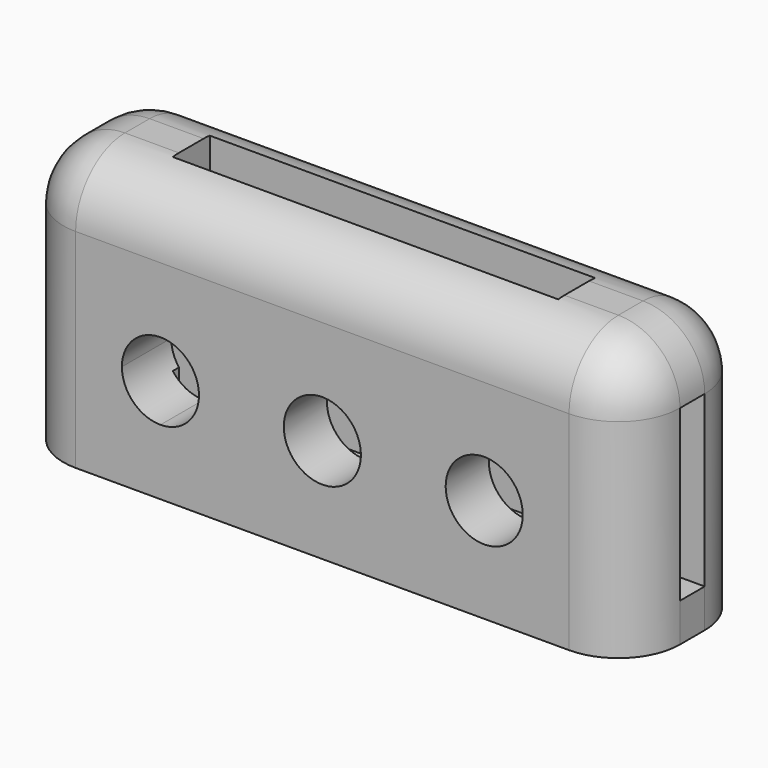
from build123d import *

# Parameters (mm, degrees)
F0_W     = 101.6
F0_H     = 44.45
F1_DEPTH = 25.4
F2_R     = 10.16
F4_DEPTH = 101.6
F6_DEPTH = 25.4
F8_DEPTH = 38.1


with BuildPart() as f1:
    # F0 (on Front) → F1 (new body)
    with BuildSketch(Plane.XZ):
        with Locations((-50.8, -22.225)):
            Rectangle(F0_W, F0_H)
    extrude(amount=F1_DEPTH)

    # F2
    f2_edges = [f1.edges().sort_by_distance(p)[0] for p in [
        (-50.8, -25.4, 0),
        (0, -12.7, 0),
        (0, -25.4, -22.225),
        (0, 0, -22.225),
        (-101.6, -25.4, -22.225),
        (-101.6, -12.7, 0),
        (-50.8, 0, 0),
        (-101.6, 0, -22.225),
    ]]
    fillet(f2_edges, radius=F2_R)

    # F3 (on face) → F4 (cut)
    with BuildSketch(Plane(origin=(-101.6, 0, 0), x_dir=(0, -1, 0), z_dir=(-1, 0, 0))):
        Polygon((15.24, -10.16), (10.16, -10.16), (10.16, -38.1), (12.7, -38.1), (15.24, -38.1), align=None)
    extrude(amount=-F4_DEPTH, mode=Mode.SUBTRACT)

    # F5 (on face) → F6 (cut)
    with BuildSketch(Plane.XZ.offset(25.4)):
        with BuildLine():
            Line((-77.47, -27.305), (-71.12, -27.305))
            ThreePointArc((-71.12, -27.305), (-72.979872, -22.814872), (-77.47, -20.955))
            Line((-77.47, -20.955), (-77.47, -27.305))
        make_face()
        with BuildLine():
            ThreePointArc((-17.78, -27.305), (-24.13, -20.955), (-30.48, -27.305))
            Line((-30.48, -27.305), (-24.13, -27.305))
            Line((-24.13, -27.305), (-17.78, -27.305))
        make_face()
        with BuildLine():
            Line((-24.13, -27.305), (-30.48, -27.305))
            ThreePointArc((-30.48, -27.305), (-24.13, -33.655), (-17.78, -27.305))
            Line((-17.78, -27.305), (-24.13, -27.305))
        make_face()
        with BuildLine():
            ThreePointArc((-44.45, -27.305), (-50.8, -20.955), (-57.15, -27.305))
            Line((-57.15, -27.305), (-50.8, -27.305))
            Line((-50.8, -27.305), (-44.45, -27.305))
        make_face()
        with BuildLine():
            Line((-50.8, -27.305), (-57.15, -27.305))
            ThreePointArc((-57.15, -27.305), (-50.8, -33.655), (-44.45, -27.305))
            Line((-44.45, -27.305), (-50.8, -27.305))
        make_face()
        with BuildLine():
            ThreePointArc((-77.47, -33.655), (-72.979872, -31.795128), (-71.12, -27.305))
            Line((-71.12, -27.305), (-77.47, -27.305))
            Line((-77.47, -27.305), (-77.47, -33.655))
        make_face()
        with BuildLine():
            Line((-77.47, -27.305), (-77.47, -20.955))
            ThreePointArc((-77.47, -20.955), (-81.960128, -22.814872), (-83.82, -27.305))
            Line((-83.82, -27.305), (-77.47, -27.305))
        make_face()
        with BuildLine():
            ThreePointArc((-83.82, -27.305), (-81.960128, -31.795128), (-77.47, -33.655))
            Line((-77.47, -33.655), (-77.47, -27.305))
            Line((-77.47, -27.305), (-83.82, -27.305))
        make_face()
    extrude(amount=-F6_DEPTH, mode=Mode.SUBTRACT)

    # F7 (on face) → F8 (cut)
    with BuildSketch(Plane.XY):
        Polygon((-50.8, -8.89), (-82.55, -8.89), (-82.55, -12.7), (-82.55, -16.51), (-50.8, -16.51), (-19.05, -16.51), (-19.05, -12.7), (-19.05, -8.89), align=None)
    extrude(amount=-F8_DEPTH, mode=Mode.SUBTRACT)


solid = f1.part
